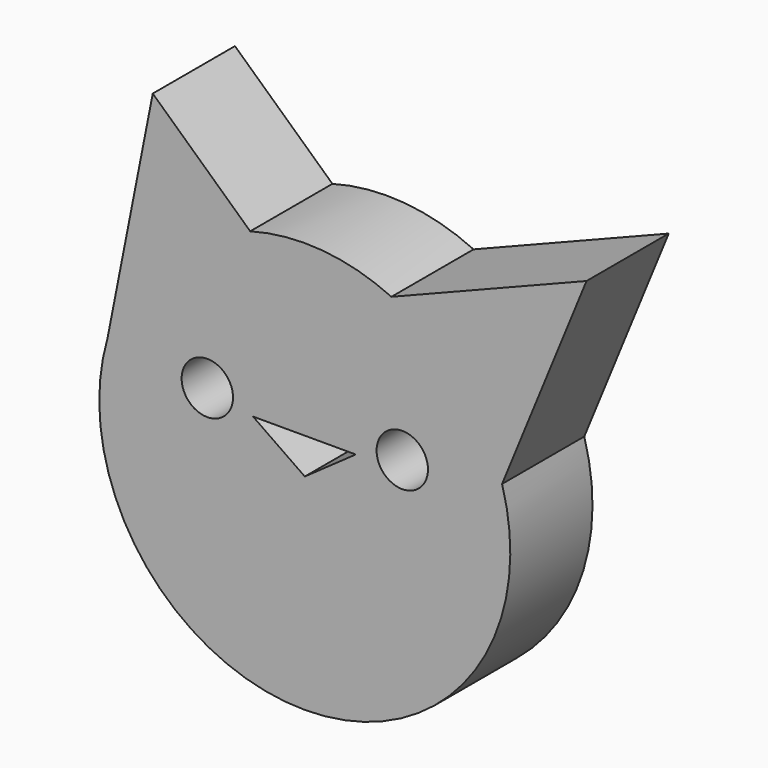
from build123d import *

# Parameters (mm, degrees)
F0_R     = 6.35
F1_DEPTH = 25.4
F3_DEPTH = 25.401


with BuildPart() as f1:
    # F0 (on Front) → F1 (new body)
    with BuildSketch(Plane.XZ):
        with BuildLine():
            Line((-37.580457, 71.118474), (-48.764932, 14.234516))
            ThreePointArc((-48.764932, 14.234516), (0, -50.8), (48.764932, 14.234516))
            Line((48.764932, 14.234516), (69.638334, 65.191805))
            Line((69.638334, 65.191805), (21.407981, 46.068844))
            ThreePointArc((21.407981, 46.068844), (4.218409, 50.62455), (-13.488094, 48.97664))
            Line((-13.488094, 48.97664), (-37.580457, 71.118474))
        make_face()
        with Locations((-24.096556, 11.43)):
            Circle(F0_R, mode=Mode.SUBTRACT)
        with Locations((24.096556, 11.43)):
            Circle(F0_R, mode=Mode.SUBTRACT)
    extrude(amount=F1_DEPTH)

    # F2 (on face) → F3 (cut, through all)
    with BuildSketch(Plane.XZ.offset(25.4)):
        Polygon((12.603787, 8.888469), (-12.796213, 8.888469), (0, 0), align=None)
    extrude(amount=-F3_DEPTH, mode=Mode.SUBTRACT)


solid = f1.part
